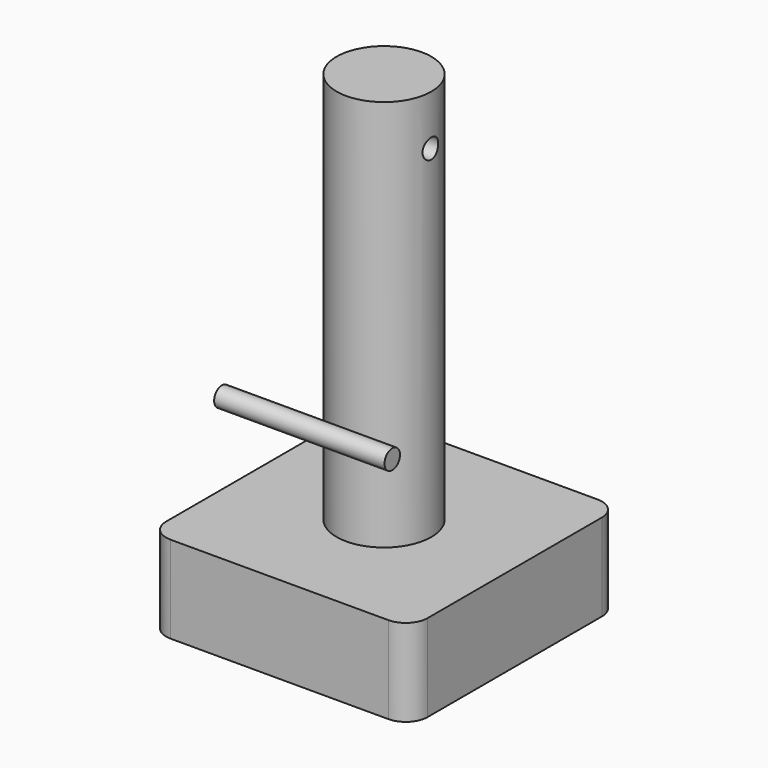
from build123d import *

# Parameters (mm, degrees)
F0_R     = 10.87401
F1_DEPTH = 20
F2_R     = 10.87401
F3_DEPTH = 90
F4_R     = 2.25
F5_DEPTH = 22.7
F6_R     = 2.225
F7_DEPTH = 39.1


with BuildPart() as f1:
    # F0 (on Top) → F1 (new body)
    with BuildSketch(Plane.XY):
        with BuildLine():
            Line((25, 30), (-25, 30))
            ThreePointArc((-25, 30), (-28.535534, 28.535534), (-30, 25))
            Line((-30, 25), (-30, -25))
            ThreePointArc((-30, -25), (-28.535534, -28.535534), (-25, -30))
            Line((-25, -30), (25, -30))
            ThreePointArc((25, -30), (28.535534, -28.535534), (30, -25))
            Line((30, -25), (30, 25))
            ThreePointArc((30, 25), (28.535534, 28.535534), (25, 30))
        make_face()
        Circle(F0_R, mode=Mode.SUBTRACT)
    extrude(amount=F1_DEPTH)


with BuildPart() as f3:
    # F2 (on face) → F3 (new body)
    with BuildSketch(Plane.XY.offset(20)):
        Circle(F2_R)
    extrude(amount=F3_DEPTH)

    # F4 (on Right) → F5 (cut, symmetric)
    with BuildSketch(Plane.YZ):
        with Locations((0, 98.508764)):
            Circle(F4_R)
    extrude(amount=F5_DEPTH, both=True, mode=Mode.SUBTRACT)


with BuildPart() as f7:
    # F6 (on Right) → F7 (new body)
    with BuildSketch(Plane.YZ):
        with Locations((-46.504702, 63.805148)):
            Circle(F6_R)
    extrude(amount=F7_DEPTH)


solid = Compound([f1.part, f3.part, f7.part])
